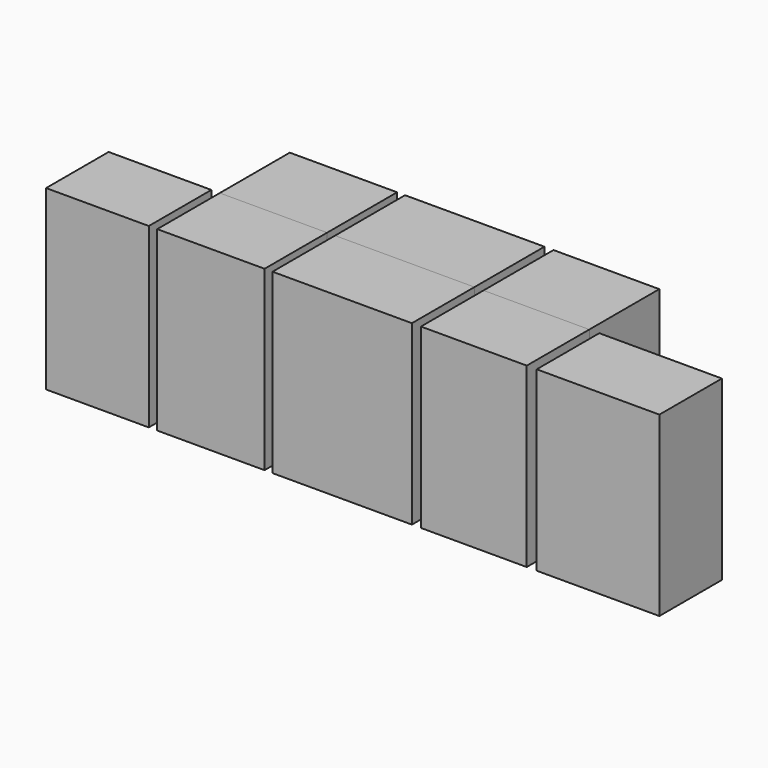
from build123d import *

# Parameters (mm, degrees)
F0_W        = 220.709413
F0_H        = 167.972758
F0_W_2      = 230.591908
F0_W_3      = 299.485266
F0_W_4      = 227.297723
F0_W_5      = 263.533592
F1_DEPTH    = 381
F1_FACE_W   = 299.485266
F1_FACE_H   = 381
F1_FACE_W_2 = 230.591908
F1_FACE_W_3 = 227.297723
F2_DEPTH    = 187.96


with BuildPart() as f1:
    # F0 (on Top) → F1 (new body)
    with BuildSketch(Plane.XY):
        with Locations((-525.877073, 0)):
            Rectangle(F0_W, F0_H)
        with Locations((-282.108508, 0)):
            Rectangle(F0_W_2, F0_H)
        Rectangle(F0_W_3, F0_H)
        with Locations((282.841622, 0)):
            Rectangle(F0_W_4, F0_H)
        with Locations((549.669385, 0)):
            Rectangle(F0_W_5, F0_H)
    extrude(amount=F1_DEPTH)


with BuildPart() as f2:
    # F1_face (on face) → F2 (new body)
    with BuildSketch(Plane(origin=(0, 83.986379, 190.5), x_dir=(-1, 0, 0), z_dir=(0, 1, 0))):
        Rectangle(F1_FACE_W, F1_FACE_H)
        with Locations((282.108508, 0)):
            Rectangle(F1_FACE_W_2, F1_FACE_H)
        with Locations((-282.841622, 0)):
            Rectangle(F1_FACE_W_3, F1_FACE_H)
    extrude(amount=F2_DEPTH)


solid = Compound([f1.part, f2.part])
